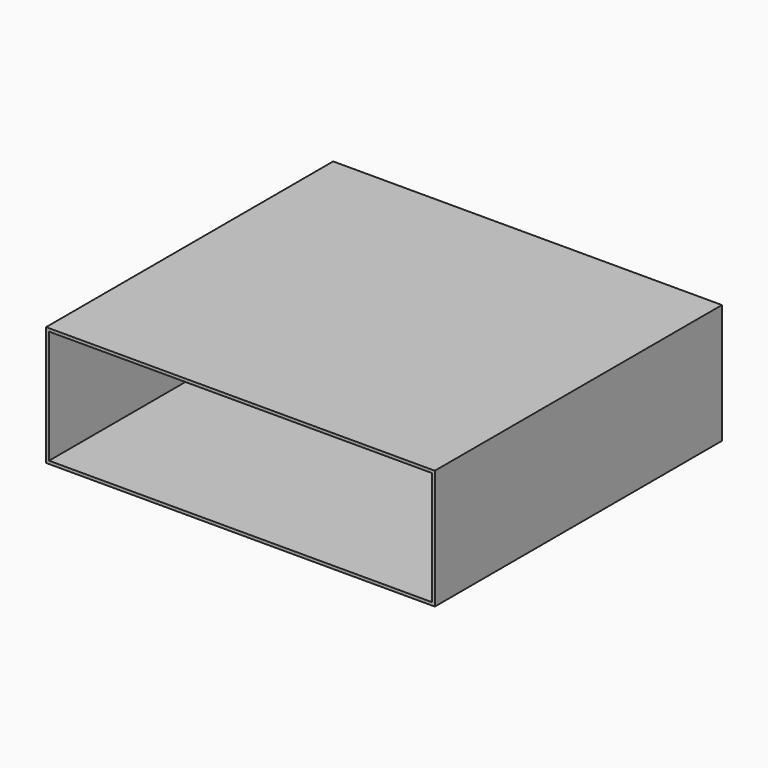
from build123d import *

# Parameters (mm, degrees)
RECTANGLE001_W   = 128
RECTANGLE001_H   = 38
EXTRUDE001_DEPTH = 124
RECTANGLE_W      = 130
RECTANGLE_H      = 40
EXTRUDE_DEPTH    = 120


with BuildPart() as extrude001:
    # Rectangle001 → Extrude001 (new body)
    with BuildSketch(Plane(origin=(65, -2, 20), x_dir=(1, 0, 0), z_dir=(0, 1, 0))):
        Rectangle(RECTANGLE001_W, RECTANGLE001_H)
    extrude(amount=EXTRUDE001_DEPTH)


with BuildPart() as cut:
    # Rectangle → Extrude (new body)
    with BuildSketch(Plane(origin=(65, 0, 20), x_dir=(1, 0, 0), z_dir=(0, 1, 0))):
        Rectangle(RECTANGLE_W, RECTANGLE_H)
    extrude(amount=EXTRUDE_DEPTH)

    # Cut: cut Extrude001
    add(extrude001.part, mode=Mode.SUBTRACT)


solid = cut.part
